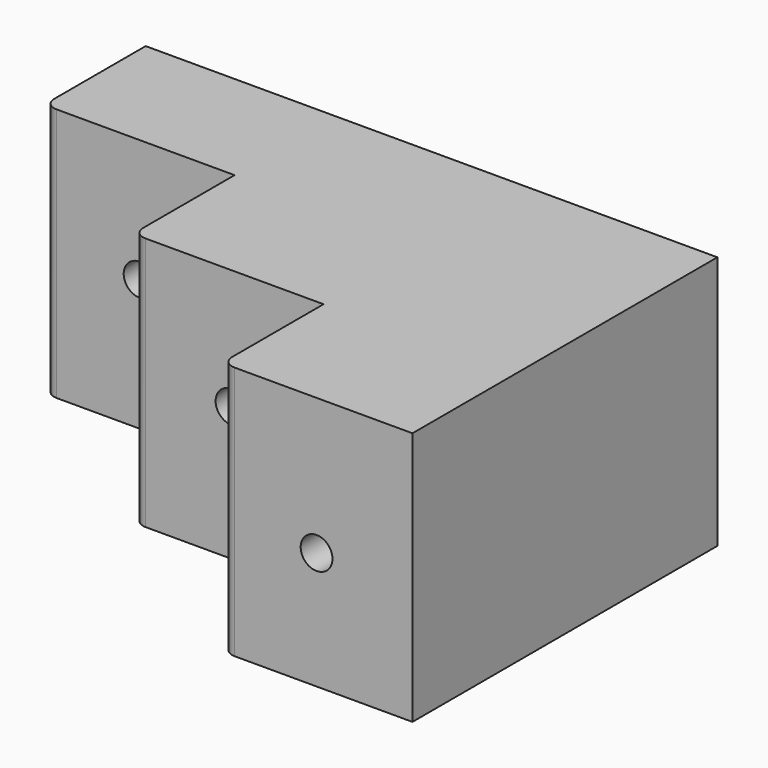
from build123d import *

# Parameters (mm, degrees)
F1_DEPTH = 400
F2_R     = 20
F4_R     = 25
F5_DEPTH = 200.001
F6_R     = 25
F7_DEPTH = 400.001
F8_R     = 25
F9_DEPTH = 600.001


with BuildPart() as f1:
    # F0 (on Top) → F1 (new body)
    with BuildSketch(Plane.XY):
        Polygon((900, 0), (0, 0), (0, -200), (300, -200), (300, -400), (600, -400), (600, -600), (900, -600), align=None)
    extrude(amount=F1_DEPTH)

    # F2
    f2_edges = [f1.edges().sort_by_distance(p)[0] for p in [
        (600, -600, 200),
        (300, -400, 200),
        (0, -200, 200),
    ]]
    fillet(f2_edges, radius=F2_R)

    # F4 (on face) → F5 (cut, through all)
    with BuildSketch(Plane.XZ.offset(200)):
        with Locations((150.4388, 206.492081)):
            Circle(F4_R)
    extrude(amount=-F5_DEPTH, mode=Mode.SUBTRACT)

    # F6 (on face) → F7 (cut, through all)
    with BuildSketch(Plane.XZ.offset(400)):
        with Locations((455.119699, 210.518703)):
            Circle(F6_R)
    extrude(amount=-F7_DEPTH, mode=Mode.SUBTRACT)

    # F8 (on face) → F9 (cut, through all)
    with BuildSketch(Plane.XZ.offset(600)):
        with Locations((749.062896, 185.016781)):
            Circle(F8_R)
    extrude(amount=-F9_DEPTH, mode=Mode.SUBTRACT)


solid = f1.part
